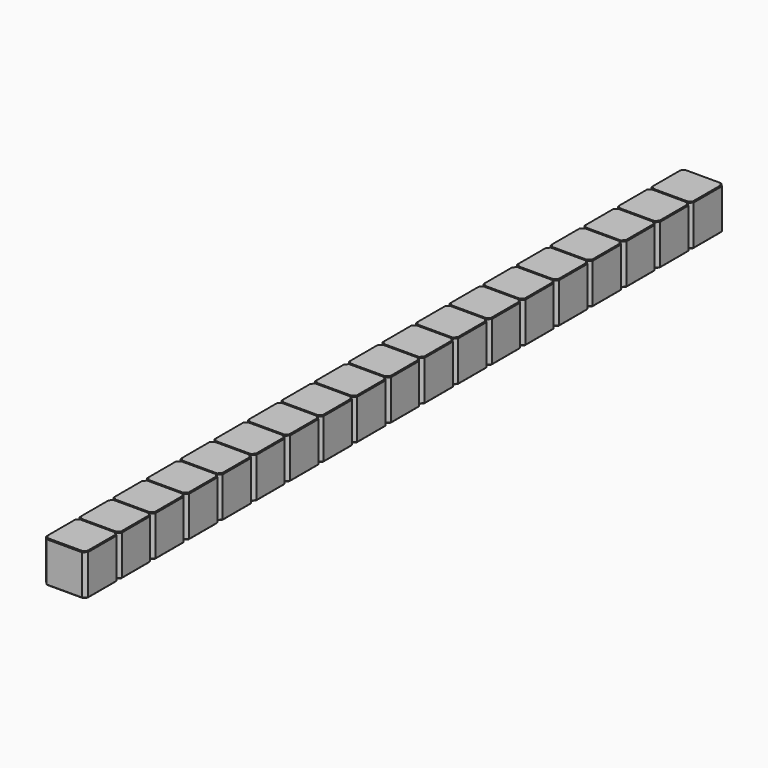
from build123d import *

# Parameters (mm, degrees)
SKETCH208_W     = 2.54
SKETCH208_H     = 2.54
PAD063_DEPTH    = 2.5
CHAMFER014_SIZE = 0.2
CHAMFER013_SIZE = 0.05
ARRAY_Y_COUNT   = 19
ARRAY_Y_PITCH   = 2.54


with BuildPart() as array:
    # Sketch208 → Pad063 (new body)
    with BuildSketch(Plane.XY):
        Rectangle(SKETCH208_W, SKETCH208_H)
    extrude(amount=PAD063_DEPTH)

    # Chamfer014
    chamfer014_edges = [array.edges().sort_by_distance(p)[0] for p in [
        (1.27, -1.27, 1.25),
        (-1.27, -1.27, 1.25),
        (1.27, 1.27, 1.25),
        (-1.27, 1.27, 1.25),
    ]]
    chamfer(chamfer014_edges, length=CHAMFER014_SIZE)

    # Chamfer013
    chamfer013_edges = [array.edges().sort_by_distance(p)[0] for p in [
        (0, -1.27, 2.5),
        (-1.17, -1.17, 2.5),
        (1.17, -1.17, 2.5),
        (-1.27, 0, 2.5),
        (1.27, 0, 2.5),
        (-1.17, 1.17, 2.5),
        (1.17, 1.17, 2.5),
        (0, 1.27, 2.5),
        (0, -1.27, 0),
        (-1.17, -1.17, 0),
        (1.17, -1.17, 0),
        (-1.27, 0, 0),
        (1.27, 0, 0),
        (-1.17, 1.17, 0),
        (1.17, 1.17, 0),
        (0, 1.27, 0),
    ]]
    chamfer(chamfer013_edges, length=CHAMFER013_SIZE)


with BuildPart() as array_copy1:
    # Array Y: instance of Array
    add(array.part.moved(Location(Vector(0, 1, 0) * (1 * ARRAY_Y_PITCH))))


with BuildPart() as array_copy2:
    # Array Y: instance of Array
    add(array.part.moved(Location(Vector(0, 1, 0) * (2 * ARRAY_Y_PITCH))))


with BuildPart() as array_copy3:
    # Array Y: instance of Array
    add(array.part.moved(Location(Vector(0, 1, 0) * (3 * ARRAY_Y_PITCH))))


with BuildPart() as array_copy4:
    # Array Y: instance of Array
    add(array.part.moved(Location(Vector(0, 1, 0) * (4 * ARRAY_Y_PITCH))))


with BuildPart() as array_copy5:
    # Array Y: instance of Array
    add(array.part.moved(Location(Vector(0, 1, 0) * (5 * ARRAY_Y_PITCH))))


with BuildPart() as array_copy6:
    # Array Y: instance of Array
    add(array.part.moved(Location(Vector(0, 1, 0) * (6 * ARRAY_Y_PITCH))))


with BuildPart() as array_copy7:
    # Array Y: instance of Array
    add(array.part.moved(Location(Vector(0, 1, 0) * (7 * ARRAY_Y_PITCH))))


with BuildPart() as array_copy8:
    # Array Y: instance of Array
    add(array.part.moved(Location(Vector(0, 1, 0) * (8 * ARRAY_Y_PITCH))))


with BuildPart() as array_copy9:
    # Array Y: instance of Array
    add(array.part.moved(Location(Vector(0, 1, 0) * (9 * ARRAY_Y_PITCH))))


with BuildPart() as array_copy10:
    # Array Y: instance of Array
    add(array.part.moved(Location(Vector(0, 1, 0) * (10 * ARRAY_Y_PITCH))))


with BuildPart() as array_copy11:
    # Array Y: instance of Array
    add(array.part.moved(Location(Vector(0, 1, 0) * (11 * ARRAY_Y_PITCH))))


with BuildPart() as array_copy12:
    # Array Y: instance of Array
    add(array.part.moved(Location(Vector(0, 1, 0) * (12 * ARRAY_Y_PITCH))))


with BuildPart() as array_copy13:
    # Array Y: instance of Array
    add(array.part.moved(Location(Vector(0, 1, 0) * (13 * ARRAY_Y_PITCH))))


with BuildPart() as array_copy14:
    # Array Y: instance of Array
    add(array.part.moved(Location(Vector(0, 1, 0) * (14 * ARRAY_Y_PITCH))))


with BuildPart() as array_copy15:
    # Array Y: instance of Array
    add(array.part.moved(Location(Vector(0, 1, 0) * (15 * ARRAY_Y_PITCH))))


with BuildPart() as array_copy16:
    # Array Y: instance of Array
    add(array.part.moved(Location(Vector(0, 1, 0) * (16 * ARRAY_Y_PITCH))))


with BuildPart() as array_copy17:
    # Array Y: instance of Array
    add(array.part.moved(Location(Vector(0, 1, 0) * (17 * ARRAY_Y_PITCH))))


with BuildPart() as array_copy18:
    # Array Y: instance of Array
    add(array.part.moved(Location(Vector(0, 1, 0) * (18 * ARRAY_Y_PITCH))))


solid = Compound([array.part, array_copy1.part, array_copy2.part, array_copy3.part, array_copy4.part, array_copy5.part, array_copy6.part, array_copy7.part, array_copy8.part, array_copy9.part, array_copy10.part, array_copy11.part, array_copy12.part, array_copy13.part, array_copy14.part, array_copy15.part, array_copy16.part, array_copy17.part, array_copy18.part])
